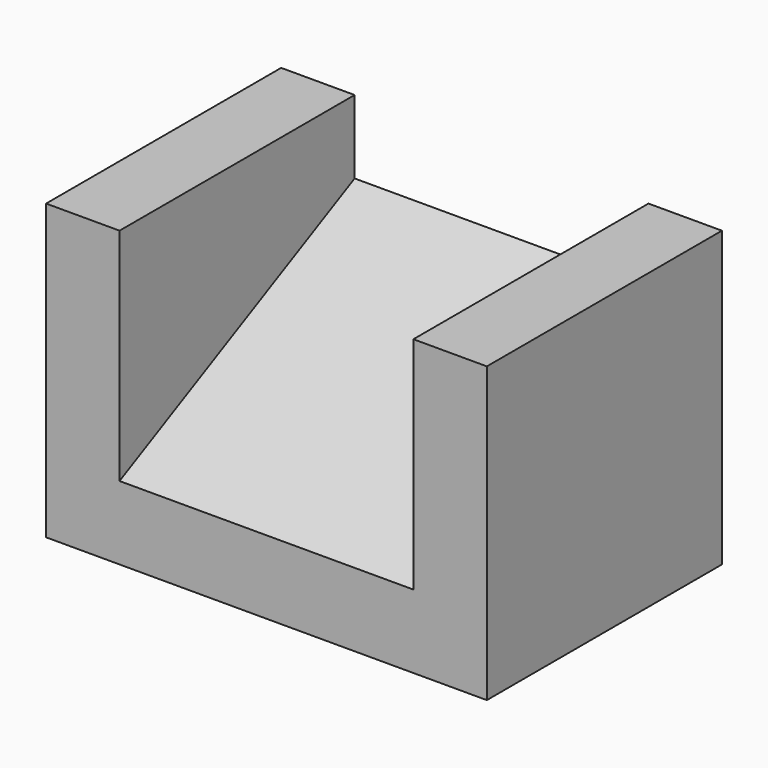
from build123d import *

# Parameters (mm, degrees)
F0_W     = 20
F0_H     = 20
F1_DEPTH = 30
F3_DEPTH = 35
F4_W     = 5
F4_H     = 20
F5_DEPTH = 20
F6_W     = 5
F6_H     = 20
F7_DEPTH = 20


with BuildPart() as f1:
    # F0 (on Right) → F1 (new body)
    with BuildSketch(Plane.YZ):
        with Locations((10, 10)):
            Rectangle(F0_W, F0_H)
    extrude(amount=F1_DEPTH)

    # F2 (on face) → F3 (cut, symmetric)
    with BuildSketch(Plane(origin=(0, 0, 0), x_dir=(0, -1, 0), z_dir=(-1, 0, 0))):
        Polygon((-20, 20), (-20, 15), (0, 5), (0, 20), align=None)
    extrude(amount=F3_DEPTH, both=True, mode=Mode.SUBTRACT)

    # F4 (on face) → F5 (join)
    with BuildSketch(Plane(origin=(0, 0, 0), x_dir=(1, 0, 0), z_dir=(0, 0, -1))):
        with Locations((2.5, -10)):
            Rectangle(F4_W, F4_H)
    extrude(amount=-F5_DEPTH)

    # F6 (on face) → F7 (join)
    with BuildSketch(Plane(origin=(0, 0, 0), x_dir=(1, 0, 0), z_dir=(0, 0, -1))):
        with Locations((27.5, -10)):
            Rectangle(F6_W, F6_H)
    extrude(amount=-F7_DEPTH)


solid = f1.part
